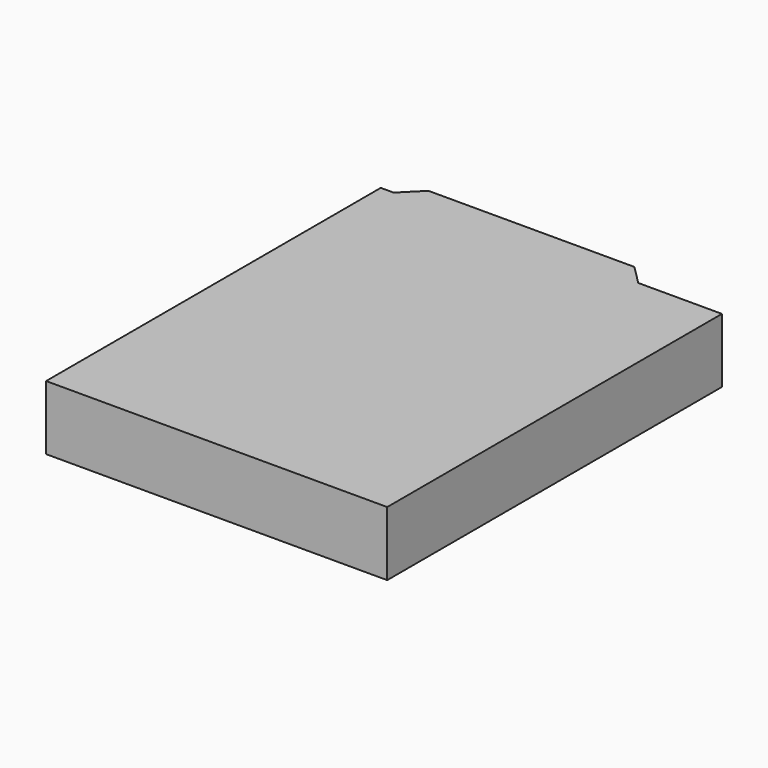
from build123d import *

# Parameters (mm, degrees)
F1_DEPTH = 10


with BuildPart() as f1:
    # F0 (on Top) → F1 (new body)
    with BuildSketch(Plane.XY):
        Polygon((0, 65), (0, 0), (53, 0), (53, 65), (40, 65), (2, 65), align=None)
        Polygon((5, 68), (2, 65), (40, 65), (37, 68), align=None)
    extrude(amount=F1_DEPTH)


solid = f1.part
